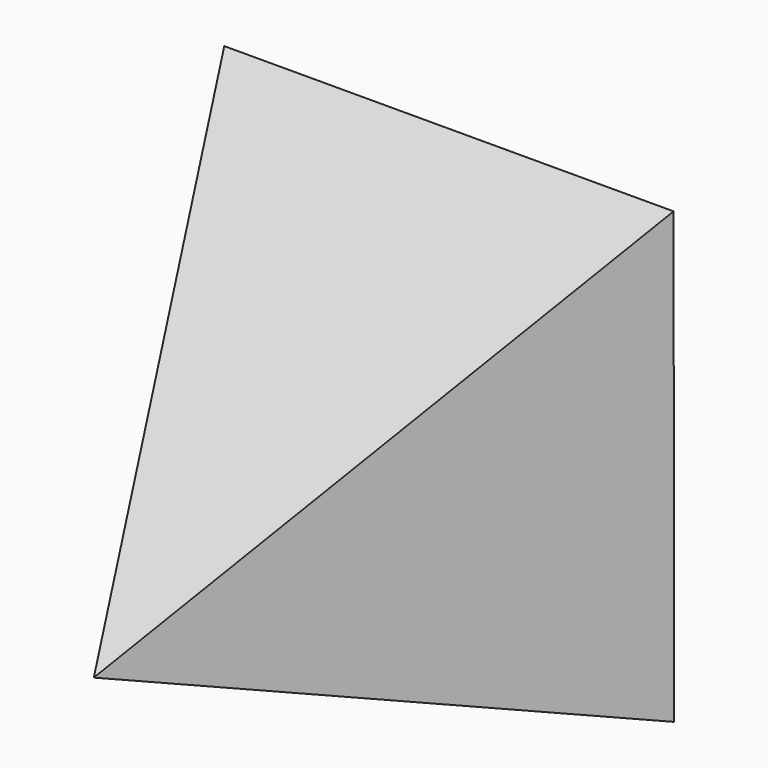
from build123d import *


with BuildPart() as f3:
    # F0 (on Front) → F3 section 0
    with BuildSketch(Plane.XZ, mode=Mode.PRIVATE) as f3_s0:
        Polygon((50.491802, 50.635248), (-50.635248, 50.491802), (-50.491802, -50.635248), (50.635248, -50.491802), align=None)
    loft([f3_s0.sketch, Vertex(0, -100, -17.528946)])


solid = f3.part
